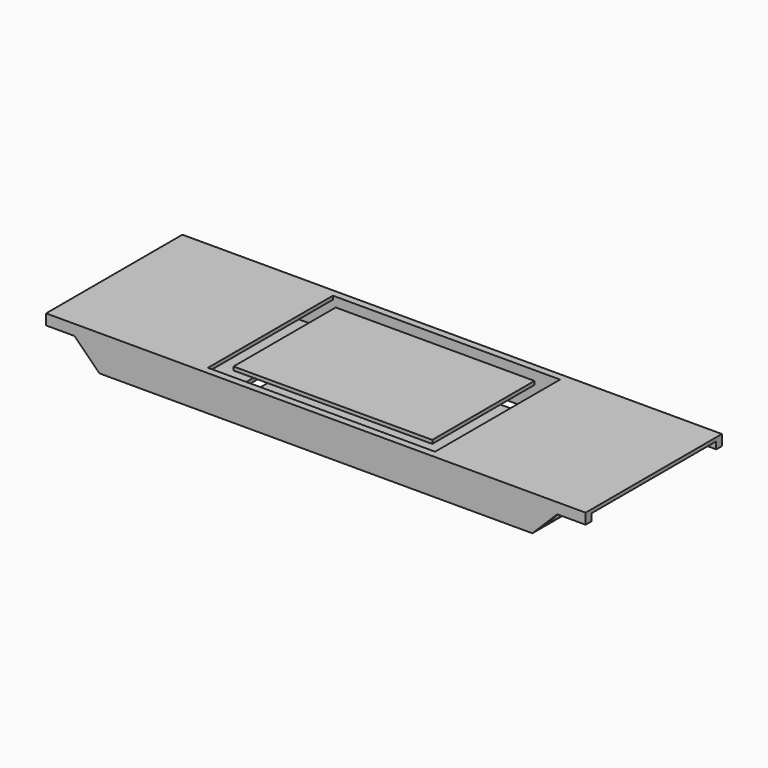
from build123d import *

# Parameters (mm, degrees)
F0_W     = 760
F0_H     = 240
F1_DEPTH = 50
F3_W     = 220
F3_H     = 40
F4_DEPTH = 760
F5_DEPTH = 240
F6_W     = 319.999992
F6_H     = 220
F6_W_2   = 280
F6_H_2   = 180
F7_DEPTH = 50


with BuildPart() as f1:
    # F0 (on Top) → F1 (new body)
    with BuildSketch(Plane.XY):
        Rectangle(F0_W, F0_H)
    extrude(amount=F1_DEPTH)

    # F3 (on face) → F4 (cut)
    with BuildSketch(Plane(origin=(-380, 0, 0), x_dir=(0, -1, 0), z_dir=(-1, 0, 0))):
        with Locations((0, 25)):
            Rectangle(F3_W, F3_H)
    extrude(amount=-F4_DEPTH, mode=Mode.SUBTRACT)

    # F2 (on face) → F5 (cut)
    with BuildSketch(Plane.XZ.offset(120)):
        Polygon((340, 35), (305, 0), (380, 0), (380, 35), align=None)
        Polygon((-340, 35), (-380, 35), (-380, 0), (-305, 0), align=None)
    extrude(amount=-F5_DEPTH, mode=Mode.SUBTRACT)

    # F6 (on face) → F7 (cut)
    with BuildSketch(Plane.XY.offset(50)):
        Rectangle(F6_W, F6_H)
        Rectangle(F6_W_2, F6_H_2, mode=Mode.SUBTRACT)
    extrude(amount=-F7_DEPTH, mode=Mode.SUBTRACT)


solid = f1.part
